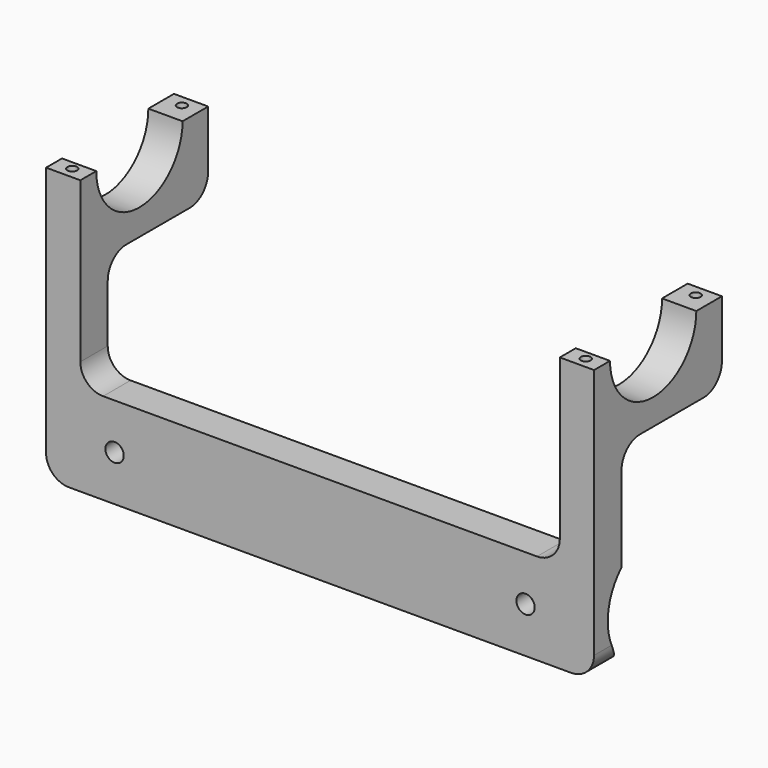
from build123d import *

# Parameters (mm, degrees)
F1_DEPTH = 152.4
F2_W     = 133.35
F2_H     = 50.8
F3_DEPTH = 44.451
F4_R     = 6.35
F6_D     = 5.1054
F8_D     = 2.7051
F8_DEPTH = 15.08125
F8_TIP   = 0.8126940303


with BuildPart() as f1:
    # F0 (on Right) → F1 (new body)
    with BuildSketch(Plane.YZ):
        with BuildLine():
            ThreePointArc((-8.9046512, 76.2), (-23.9046512, 61.2), (-38.9046512, 76.2))
            Line((-38.9046512, 76.2), (-44.45, 76.2))
            Line((-44.45, 76.2), (-44.45, 0))
            Line((-44.45, 0), (-34.925, 0))
            Line((-34.925, 0), (-34.925, 1.4153871466))
            ThreePointArc((-34.925, 1.4153871466), (-39.6875, 12.7), (-34.925, 23.9846128534))
            Line((-34.925, 23.9846128534), (-34.925, 53.975))
            Line((-34.925, 53.975), (0, 53.975))
            Line((0, 53.975), (0, 76.2))
            Line((0, 76.2), (-8.9046512, 76.2))
        make_face()
    extrude(amount=F1_DEPTH)

    # F2 (on face) → F3 (cut, through all)
    with BuildSketch(Plane.XZ.offset(44.45)):
        with Locations((76.2, 50.8)):
            Rectangle(F2_W, F2_H)
    extrude(amount=-F3_DEPTH, mode=Mode.SUBTRACT)

    # F4
    f4_edges = [f1.edges().sort_by_distance(p)[0] for p in [
        (147.6375, 0, 53.975),
        (4.7625, 0, 53.975),
        (4.7625, -34.925, 53.975),
        (147.6375, -34.925, 53.975),
        (152.4, -39.6875, 0),
        (0, -39.6875, 0),
        (142.875, -39.6875, 25.4),
        (9.525, -39.6875, 25.4),
    ]]
    fillet(f4_edges, radius=F4_R)

    # F6 (through all)
    with Locations(Plane.XZ.offset(44.45)):
        with Locations((19.05, 12.7), (133.35, 12.7)):
            Hole(F6_D / 2)

    # F8
    with Locations(Plane.XY.offset(76.2)):
        with Locations((4.7625, -3.175), (4.7625, -41.275), (147.6375, -3.175), (147.6375, -41.4069328651)):
            Hole(F8_D / 2, depth=F8_DEPTH)
            with Locations((0, 0, -(F8_DEPTH + F8_TIP / 2))):  # 118° drill point
                Cone(0, F8_D / 2, F8_TIP, mode=Mode.SUBTRACT)


solid = f1.part
